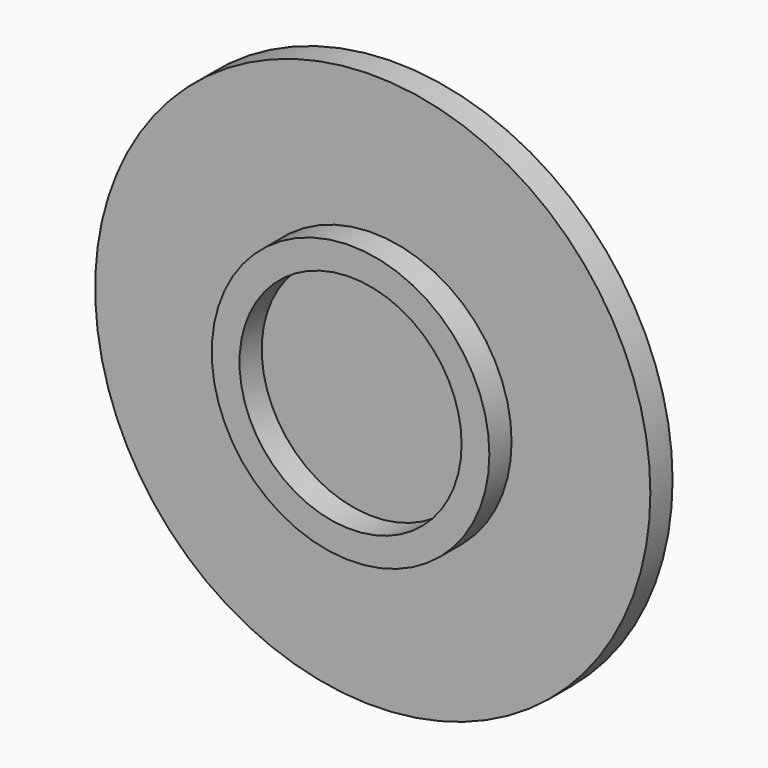
from build123d import *

# Parameters (mm, degrees)
F0_R     = 50
F0_R_2   = 25
F0_R_3   = 20
F1_DEPTH = 5
F2_DEPTH = 10


with BuildPart() as f1:
    # F0 (on Front) → F1 (new body)
    with BuildSketch(Plane.XZ):
        Circle(F0_R)
        Circle(F0_R_2, mode=Mode.SUBTRACT)
        Circle(F0_R_2)
        Circle(F0_R_3, mode=Mode.SUBTRACT)
        Circle(F0_R_3)
    extrude(amount=F1_DEPTH)

    # F0 (on Front) → F2 (join)
    with BuildSketch(Plane.XZ):
        Circle(F0_R_2)
        Circle(F0_R_3, mode=Mode.SUBTRACT)
    extrude(amount=F2_DEPTH)


solid = f1.part
